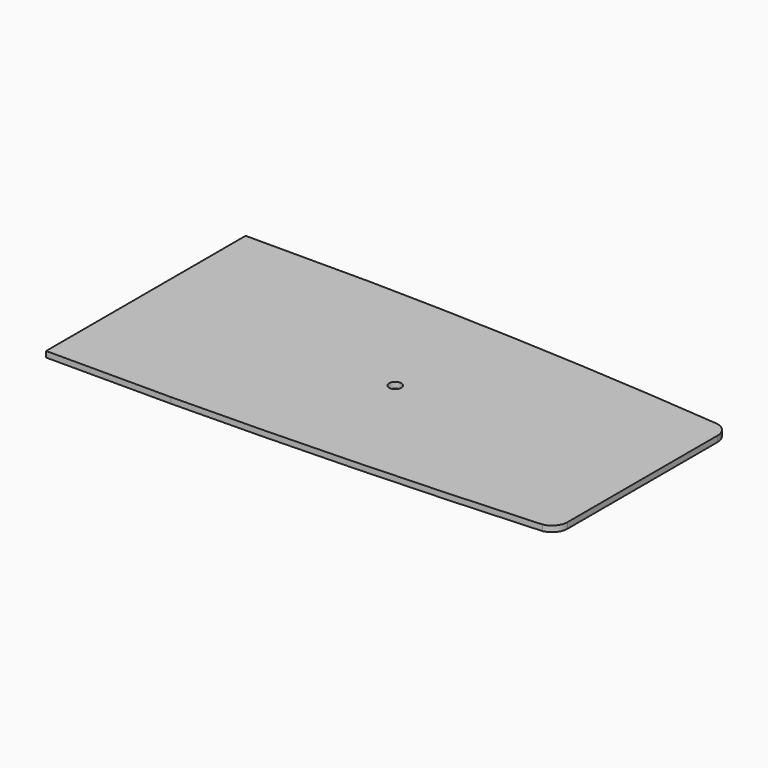
from build123d import *

# Parameters (mm, degrees)
F0_R     = 30.226
F1_DEPTH = 28.575


with BuildPart() as f1:
    # F0 (on Top) → F1 (new body)
    with BuildSketch(Plane.XY):
        with BuildLine():
            Line((1219.2, -470.965787), (1219.2, 445.565831))
            ThreePointArc((1219.2, 445.565831), (1201.198829, 494.752581), (1155.700359, 520.699984))
            Line((1155.700359, 520.699984), (-1219.2, 609.6))
            Line((-1219.2, 609.6), (-1219.2, -609.6))
            Line((-1219.2, -609.6), (1155.7, -546.1))
            ThreePointArc((1155.7, -546.1), (1201.198711, -520.152675), (1219.2, -470.965787))
        make_face()
        Circle(F0_R, mode=Mode.SUBTRACT)
        with BuildLine():
            Line((-1219.2, 609.6), (1155.700359, 520.699984))
            ThreePointArc((1155.700359, 520.699984), (273.88184, 581.6644), (-609.6, 609.6))
            Line((-609.6, 609.6), (-1219.2, 609.6))
        make_face()
        with BuildLine():
            ThreePointArc((-609.6, -609.6), (273.474389, -589.648025), (1155.7, -546.1))
            Line((1155.7, -546.1), (-1219.2, -609.6))
            Line((-1219.2, -609.6), (-609.6, -609.6))
        make_face()
    extrude(amount=F1_DEPTH)


solid = f1.part
